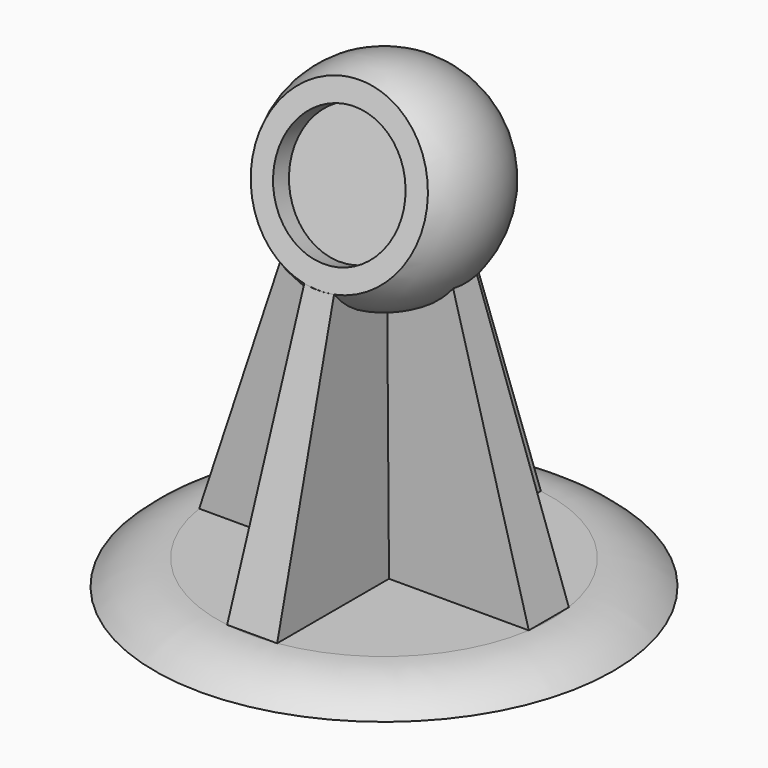
from build123d import *

# Parameters (mm, degrees)
SKETCH004_R     = 22.270316
POCKET_DEPTH    = 45.906105
SKETCH005_R     = 15.471948
POCKET001_DEPTH = 5


with BuildPart() as part:
    # Sketch001 → Revolution (revolve)
    with BuildSketch(Plane.XZ):
        with BuildLine():
            Line((0, -6), (-40, -6))
            Line((-40, -6), (-55, -6))
            ThreePointArc((-40, 0), (-48.077747, -1.555632), (-55, -6))
            Line((-40, 0), (0, 0))
            Line((0, -6), (0, 0))
        make_face()
    revolve(axis=Axis((0, 0, 0), (0, 0, 1)))

    # Sketch003 (on Face2 of Revolution) → AdditiveLoft section 0
    with BuildSketch(Plane(origin=(0, 0, 0), x_dir=(-1, 0, 0), z_dir=(0, 0, 1))):
        Polygon((-6, 39.54744), (6, 39.54744), (6, 6), (39.54744, 6), (39.54744, -6), (6, -6), (6, -39.54744), (-6, -39.54744), (-6, -6), (-39.54744, -6), (-39.54744, 6), (-6, 6), align=None)
    # Sketch002 (on Face2 of Revolution) → AdditiveLoft section 1
    with BuildSketch(Plane(origin=(0, 0, 80), x_dir=(-1, 0, 0), z_dir=(0, 0, 1))):
        Polygon((-3, 14.696938), (3, 14.696938), (3, 3), (14.696938, 3), (14.696938, -3), (3, -3), (3, -14.696938), (-3, -14.696938), (-3, -3), (-14.696938, -3), (-14.696938, 3), (-3, 3), align=None)
    loft()

    # Sphere → Sphere (revolve)
    with BuildSketch(Plane(origin=(0, 0, 80), x_dir=(-1, 0, 0), z_dir=(0, 1, 0))):
        with BuildLine():
            ThreePointArc((0, -25), (25, 0), (0, 25))
            Line((0, 25), (0, -25))
        make_face()
    revolve(axis=Axis((0, 0, 80), (0, 0, 1)))

    # Sketch004 (on DatumPlane) → Pocket (cut, through all)
    with BuildSketch(Plane(origin=(0, -30.371881, 29.538427), x_dir=(-1, 0, 0), z_dir=(0, -0.954987, 0.296649))):
        with Locations((0, -58.80426)):
            Circle(SKETCH004_R)
    extrude(amount=POCKET_DEPTH, mode=Mode.SUBTRACT)

    # Sketch005 (on Face25 of Pocket) → Pocket001 (cut)
    with BuildSketch(Plane(origin=(0, -13.403601, 84.163578), x_dir=(1, 0, 0), z_dir=(0, -0.954987, 0.296649))):
        Circle(SKETCH005_R)
    extrude(amount=-POCKET001_DEPTH, mode=Mode.SUBTRACT)


solid = part.part
